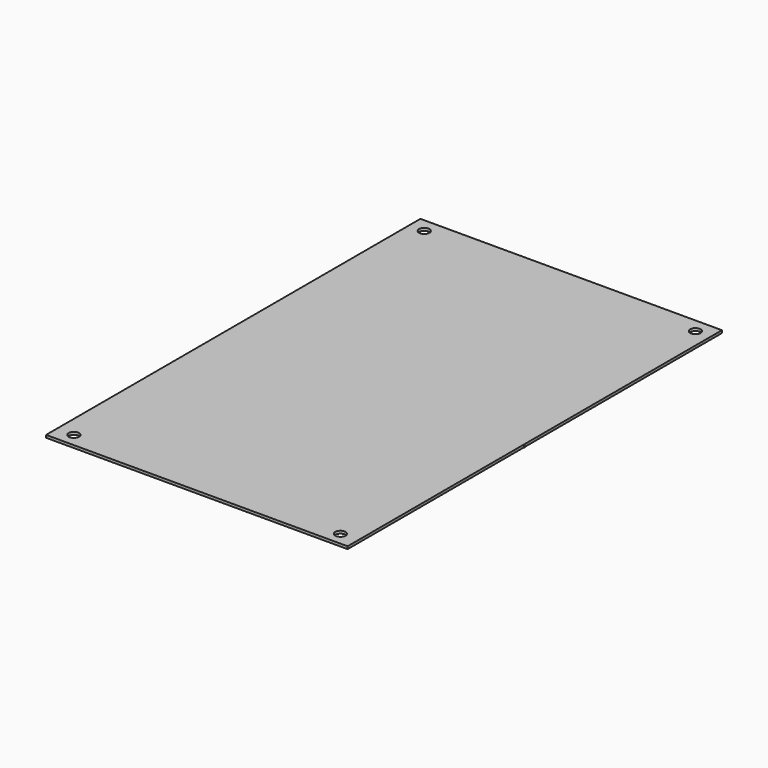
from build123d import *

# Parameters (mm, degrees)
F0_W     = 0.795994738
F0_H     = 0.3761083686
F1_DEPTH = 3.175
F2_R     = 6.35
F3_DEPTH = 3.175


with BuildPart() as f1:
    # F0 (on Top) → F1 (new body)
    with BuildSketch(Plane.XY):
        Polygon((184.15, -15.9963709149), (184.15, 285.75), (-184.15, 285.75), (-184.15, -285.75), (184.15, -285.75), (184.15, -16.3724792835), (183.354005262, -16.3724792835), (183.354005262, -15.9963709149), align=None)
        with Locations((184.547997369, -16.1844250992)):
            Rectangle(F0_W, F0_H)
        with Locations((183.752002631, -16.1844250992)):
            Rectangle(F0_W, F0_H)
    extrude(amount=F1_DEPTH)

    # F2 (on face) → F3 (cut)
    with BuildSketch(Plane.XY.offset(3.175)):
        with Locations((-165.5958145857, 268.4546113014)):
            Circle(F2_R)
        with Locations((165.6573414803, 268.4546113014)):
            Circle(F2_R)
        with Locations((-163.3923649788, -269.1890895367)):
            Circle(F2_R)
        with Locations((162.7193838358, -269.9235677719)):
            Circle(F2_R)
    extrude(amount=-F3_DEPTH, mode=Mode.SUBTRACT)


solid = f1.part
